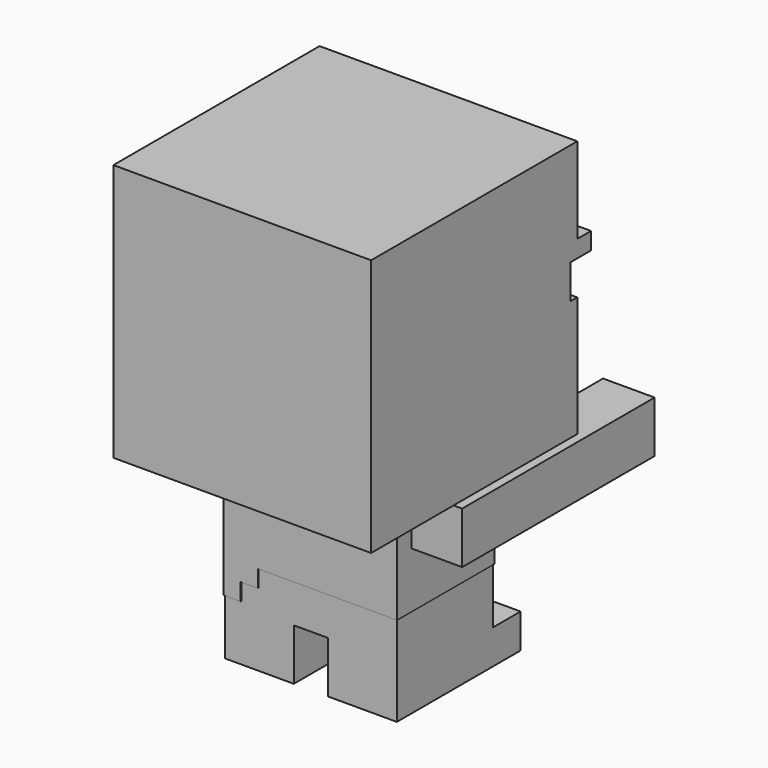
from build123d import *

# Parameters (mm, degrees)
F0_W      = 15
F0_H      = 15
F1_DEPTH  = 15
F2_W      = 10
F2_H      = 7
F3_DEPTH  = 8.5
F4_W      = 4
F4_H      = 7
F5_DEPTH  = 3
F6_W      = 4
F6_H      = 7
F7_DEPTH  = 3
F8_W      = 4
F8_H      = 2
F9_DEPTH  = 2
F10_W     = 4
F10_H     = 2
F11_DEPTH = 2
F12_W     = 14
F12_H     = 3
F13_DEPTH = 3
F14_W     = 14
F14_H     = 3
F15_DEPTH = 3
F16_W     = 5
F16_H     = 5
F17_DEPTH = 4
F18_W     = 15
F18_H     = 1
F19_DEPTH = 1
F20_W     = 1
F20_H     = 1
F21_DEPTH = 1
F22_W     = 1
F22_H     = 1
F23_DEPTH = 1
F24_W     = 2
F24_H     = 2
F25_DEPTH = 0.5
F26_W     = 2
F26_H     = 2
F27_DEPTH = 0.5
F28_W     = 2
F28_H     = 2
F29_DEPTH = 0.5
F30_W     = 10
F30_H     = 6.25
F31_DEPTH = 0.05
F32_W     = 2
F32_H     = 1
F33_DEPTH = 0.05
F34_W     = 1
F34_H     = 1
F35_DEPTH = 0.05
F36_W     = 7.05
F36_H     = 8.25
F37_DEPTH = 0.05
F38_W     = 1
F38_H     = 1
F39_DEPTH = 0.05
F40_W     = 7.1
F40_H     = 6.25
F41_DEPTH = 0.05


with BuildPart() as f1:
    # F0 (on Front) → F1 (new body)
    with BuildSketch(Plane.XZ):
        Rectangle(F0_W, F0_H)
    extrude(amount=F1_DEPTH)

    # F2 (on face) → F3 (join)
    with BuildSketch(Plane(origin=(0, 0, -7.5), x_dir=(1, 0, 0), z_dir=(0, 0, -1))):
        with Locations((0, 6.5)):
            Rectangle(F2_W, F2_H)
    extrude(amount=F3_DEPTH)

    # F4 (on face) → F5 (join)
    with BuildSketch(Plane(origin=(0, 0, -16), x_dir=(1, 0, 0), z_dir=(0, 0, -1))):
        with Locations((-3, 6.5)):
            Rectangle(F4_W, F4_H)
    extrude(amount=F5_DEPTH)

    # F6 (on face) → F7 (join)
    with BuildSketch(Plane(origin=(0, 0, -16), x_dir=(1, 0, 0), z_dir=(0, 0, -1))):
        with Locations((3, 6.5)):
            Rectangle(F6_W, F6_H)
    extrude(amount=F7_DEPTH)

    # F8 (on face) → F9 (join)
    with BuildSketch(Plane(origin=(0, -3, 0), x_dir=(-1, 0, 0), z_dir=(0, 1, 0))):
        with Locations((-3, -18)):
            Rectangle(F8_W, F8_H)
    extrude(amount=F9_DEPTH)

    # F10 (on face) → F11 (join, symmetric)
    with BuildSketch(Plane(origin=(0, -3, 0), x_dir=(-1, 0, 0), z_dir=(0, 1, 0))):
        with Locations((3, -18)):
            Rectangle(F10_W, F10_H)
    extrude(amount=F11_DEPTH, both=True)

    # F12 (on face) → F13 (join)
    with BuildSketch(Plane.YZ.offset(5)):
        with Locations((-2, -9)):
            Rectangle(F12_W, F12_H)
    extrude(amount=F13_DEPTH)

    # F14 (on face) → F15 (join)
    with BuildSketch(Plane(origin=(-5, 0, 0), x_dir=(0, -1, 0), z_dir=(-1, 0, 0))):
        with Locations((2, -9)):
            Rectangle(F14_W, F14_H)
    extrude(amount=F15_DEPTH)

    # F16 (on face) → F17 (join)
    with BuildSketch(Plane(origin=(0, 0, 0), x_dir=(-1, 0, 0), z_dir=(0, 1, 0))):
        with Locations((0, -5)):
            Rectangle(F16_W, F16_H)
    extrude(amount=F17_DEPTH)

    # F18 (on face) → F19 (join)
    with BuildSketch(Plane(origin=(0, 0, 0), x_dir=(-1, 0, 0), z_dir=(0, 1, 0))):
        with Locations((0, 2)):
            Rectangle(F18_W, F18_H)
    extrude(amount=F19_DEPTH)

    # F20 (on face) → F21 (cut)
    with BuildSketch(Plane(origin=(0, 0, 0), x_dir=(-1, 0, 0), z_dir=(0, 1, 0))):
        with Locations((3, -5)):
            Rectangle(F20_W, F20_H)
    extrude(amount=-F21_DEPTH, mode=Mode.SUBTRACT)

    # F22 (on face) → F23 (cut)
    with BuildSketch(Plane(origin=(0, 0, 0), x_dir=(-1, 0, 0), z_dir=(0, 1, 0))):
        with Locations((-3, -5)):
            Rectangle(F22_W, F22_H)
    extrude(amount=-F23_DEPTH, mode=Mode.SUBTRACT)

    # F24 (on face) → F25 (cut)
    with BuildSketch(Plane(origin=(0, 0, 0), x_dir=(-1, 0, 0), z_dir=(0, 1, 0))):
        with Locations((-6.5, 0.5)):
            Rectangle(F24_W, F24_H)
    extrude(amount=-F25_DEPTH, mode=Mode.SUBTRACT)

    # F26 (on face) → F27 (cut)
    with BuildSketch(Plane(origin=(0, 0, 0), x_dir=(-1, 0, 0), z_dir=(0, 1, 0))):
        with Locations((-4.5, 0.5)):
            Rectangle(F26_W, F26_H)
    extrude(amount=-F27_DEPTH, mode=Mode.SUBTRACT)

    # F28 (on face) → F29 (cut)
    with BuildSketch(Plane(origin=(0, 0, 0), x_dir=(-1, 0, 0), z_dir=(0, 1, 0))):
        with Locations((6.5, 0.5)):
            Rectangle(F28_W, F28_H)
        with Locations((4.5, 0.5)):
            Rectangle(F28_W, F28_H)
    extrude(amount=-F29_DEPTH, mode=Mode.SUBTRACT)

    # F30 (on face) → F31 (join)
    with BuildSketch(Plane(origin=(0, -3, 0), x_dir=(-1, 0, 0), z_dir=(0, 1, 0))):
        with Locations((0, -10.625)):
            Rectangle(F30_W, F30_H)
    extrude(amount=F31_DEPTH)

    # F32 (on face) → F33 (join)
    with BuildSketch(Plane(origin=(0, -3, 0), x_dir=(-1, 0, 0), z_dir=(0, 1, 0))):
        with Locations((4, -14.25)):
            Rectangle(F32_W, F32_H)
    extrude(amount=F33_DEPTH)

    # F34 (on face) → F35 (join)
    with BuildSketch(Plane(origin=(0, -3, 0), x_dir=(-1, 0, 0), z_dir=(0, 1, 0))):
        with Locations((4.5, -15.25)):
            Rectangle(F34_W, F34_H)
    extrude(amount=F35_DEPTH)

    # F36 (on face) → F37 (join)
    with BuildSketch(Plane(origin=(-5, 0, 0), x_dir=(0, -1, 0), z_dir=(-1, 0, 0))):
        with Locations((6.475, -11.625)):
            Rectangle(F36_W, F36_H)
    extrude(amount=F37_DEPTH)

    # F38 (on face) → F39 (join)
    with BuildSketch(Plane.XZ.offset(10)):
        Polygon((5, -13.75), (5, -7.5), (-5.05, -7.5), (-5.05, -13.75), (-3.05, -13.75), align=None)
        Polygon((-3.05, -13.75), (-5.05, -13.75), (-5.05, -14.75), (-4.05, -14.75), (-3.05, -14.75), align=None)
        with Locations((-4.55, -15.25)):
            Rectangle(F38_W, F38_H)
    extrude(amount=F39_DEPTH)

    # F40 (on face) → F41 (join)
    with BuildSketch(Plane.YZ.offset(5)):
        with Locations((-6.5, -10.625)):
            Rectangle(F40_W, F40_H)
    extrude(amount=F41_DEPTH)


solid = f1.part
